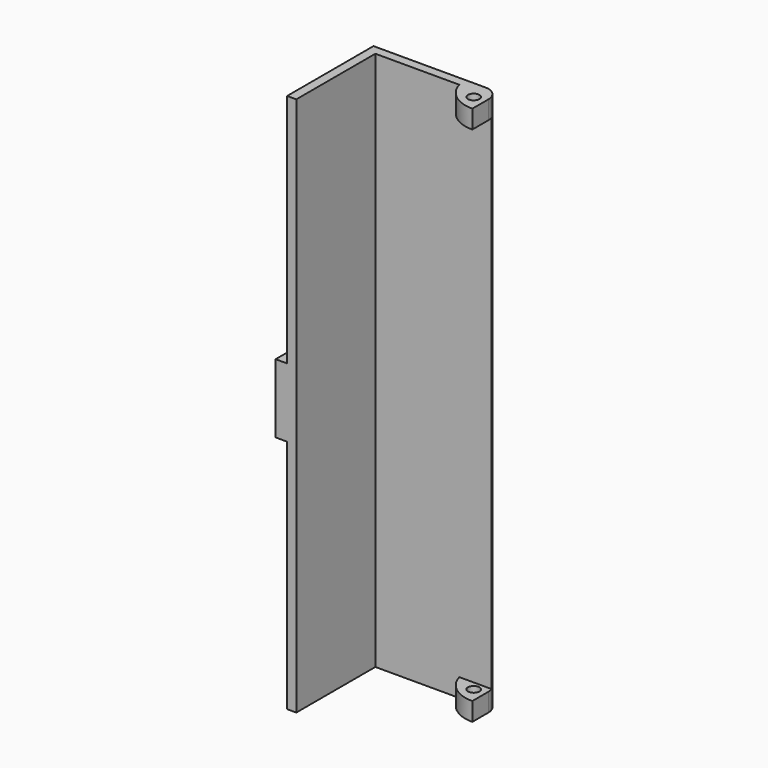
from build123d import *

# Parameters (mm, degrees)
F1_DEPTH = 47
F2_W     = 8.6
F2_H     = 43.8
F3_DEPTH = 25
F4_D     = 1
F5_W     = 1.5
F5_H     = 6
F6_DEPTH = 1


with BuildPart() as f1:
    # F0 (on Top) → F1 (new body)
    with BuildSketch(Plane.XY):
        with BuildLine():
            ThreePointArc((-2.891366459, 8.6), (-1.8165902125, 7.0125327227), (0, 6.4))
            Line((0, 6.4), (0, 8.15))
            ThreePointArc((0, 8.15), (-0.0211310131, 8.3788689869), (-0.083809621, 8.6))
            Line((-0.083809621, 8.6), (-2.891366459, 8.6))
        make_face()
        with BuildLine():
            Line((-10.2, 9.4), (-10.2, 8.6))
            Line((-10.2, 8.6), (-2.891366459, 8.6))
            Line((-2.891366459, 8.6), (-0.083809621, 8.6))
            ThreePointArc((-0.083809621, 8.6), (-0.5428932188, 9.1807764064), (-1.25, 9.4))
            Line((-1.25, 9.4), (-10.2, 9.4))
        make_face()
        Polygon((-11, 0), (-10.2, 0), (-10.2, 8.6), (-10.2, 9.4), (-11, 9.4), align=None)
    extrude(amount=F1_DEPTH)

    # F2 (on face) → F3 (cut)
    with BuildSketch(Plane.YZ.offset(-10.2)):
        with Locations((4.3, 23.5)):
            Rectangle(F2_W, F2_H)
    extrude(amount=F3_DEPTH, mode=Mode.SUBTRACT)

    # F4 (through all)
    with Locations(Plane(origin=(0, 0, 0), x_dir=(1, 0, 0), z_dir=(0, 0, -1))):
        with Locations((-1, -7.8)):
            Hole(F4_D / 2)

    # F5 (on face) → F6 (join)
    with BuildSketch(Plane(origin=(-11, 0, 0), x_dir=(0, -1, 0), z_dir=(-1, 0, 0))):
        with Locations((-0.75, 23.5)):
            Rectangle(F5_W, F5_H)
    extrude(amount=F6_DEPTH)


solid = f1.part
